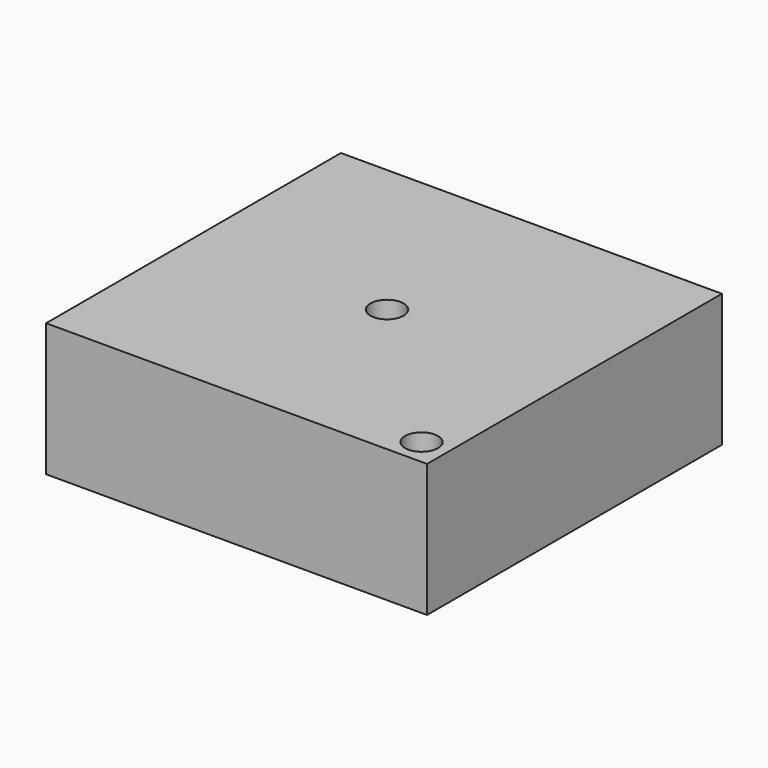
from build123d import *

# Parameters (mm, degrees)
F0_W     = 72.761286
F0_H     = 70.397198
F1_DEPTH = 25.4
F2_R     = 3.148558
F3_DEPTH = 25.4
F6_D     = 6.35


with BuildPart() as f1:
    # F0 (on Top) → F1 (new body)
    with BuildSketch(Plane.XY):
        with Locations((-0.571629, -0.002768)):
            Rectangle(F0_W, F0_H)
    extrude(amount=F1_DEPTH)


with BuildPart() as f3:
    # F2 (on Top) → F3 (new body)
    with BuildSketch(Plane.XY):
        with Locations((30.75167, -30.19508)):
            Circle(F2_R)
    extrude(amount=F3_DEPTH)


with BuildPart() as f1_1:
    add(f1.part)

    # F4: cut F3
    add(f3.part, mode=Mode.SUBTRACT)

    # F6 (through all)
    with Locations(Plane(origin=(0, 0, 0), x_dir=(1, 0, 0), z_dir=(0, 0, -1))):
        with Locations((0, 0)):
            Hole(F6_D / 2)


solid = f1_1.part
